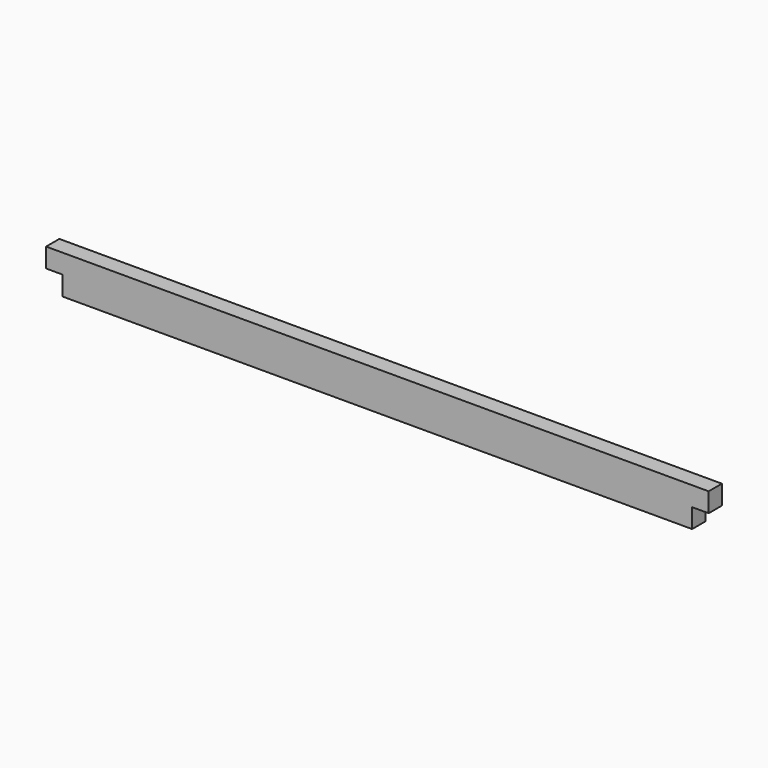
from build123d import *

# Parameters (mm, degrees)
BOX008_W        = 1828.8
BOX008_H        = 38.1
BOX008_DEPTH    = 88.9
POCKET005_DEPTH = 38.1010000002


with BuildPart() as pocket005:
    # Box008 → Box008 (new body)
    with BuildSketch(Plane(origin=(-152.4, -38.1, 457.2), x_dir=(1, 0, 0), z_dir=(0, 0, 1))):
        with Locations((914.4, 19.05)):
            Rectangle(BOX008_W, BOX008_H)
    extrude(amount=BOX008_DEPTH)

    # Sketch005 → Pocket005 (cut, through all)
    with BuildSketch(Plane(origin=(-152.4, -38.1, 457.2), x_dir=(1, 0, 0), z_dir=(0, -1, 0))):
        Polygon((190.5, 44.45), (152.4, 44.45), (152.4, 88.9), (0, 88.9), (0, 0), (190.5, 0), align=None)
        Polygon((1638.3, 44.45), (1676.4, 44.45), (1676.4, 88.9), (1828.8, 88.9), (1828.8, 0), (1638.3, 0), align=None)
    extrude(amount=-POCKET005_DEPTH, mode=Mode.SUBTRACT)


with BuildPart() as southfloorbeam:
    # Part__Mirroring003: instance of Pocket005
    add(pocket005.part.mirror(Plane(origin=(0, 762, 0), x_dir=(1, 0, 0), z_dir=(0, 1, 0))))


solid = southfloorbeam.part
